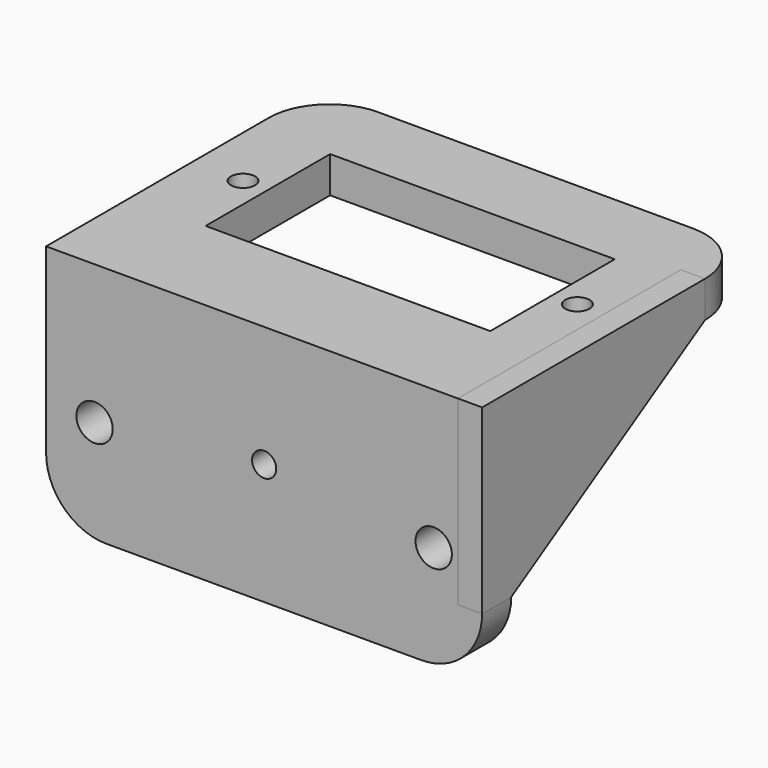
from build123d import *

# Parameters (mm, degrees)
F0_R       = 1.5
F1_DEPTH   = 3
F1_FACE1_W = 26
F1_FACE1_H = 3
F2_R       = 1
F2_W       = 23.5
F2_H       = 12.85
F2_W_2     = 36
F2_H_2     = 3
F3_DEPTH   = 3
F5_DEPTH   = 36
F6_R       = 1
F7_DEPTH   = 3.001
F9_DEPTH   = 2


with BuildPart() as f1:
    # F0 (on Front) → F1 (new body)
    with BuildSketch(Plane.XZ):
        with BuildLine():
            Line((-31, 0), (-5, 0))
            ThreePointArc((-5, 0), (-1.4644660941, 1.4644660941), (0, 5))
            Line((0, 5), (0, 17))
            Line((0, 17), (-36, 17))
            Line((-36, 17), (-36, 5))
            ThreePointArc((-36, 5), (-34.5355339059, 1.4644660941), (-31, 0))
        make_face()
        with Locations((-32, 8.5)):
            Circle(F0_R, mode=Mode.SUBTRACT)
        with Locations((-4, 8.5)):
            Circle(F0_R, mode=Mode.SUBTRACT)
    extrude(amount=F1_DEPTH)

    # F1_face1 (on face) + F2 (on face) → F3 (join)
    with BuildSketch(Plane(origin=(-18, -1.5, 0), x_dir=(1, 0, 0), z_dir=(0, 0, -1))):
        Rectangle(F1_FACE1_W, F1_FACE1_H)
    with BuildSketch(Plane.XY.offset(17)):
        with BuildLine():
            Line((-36, 20), (-36, 0))
            Line((-36, 0), (0, 0))
            Line((0, 0), (0, 20))
            ThreePointArc((0, 20), (-1.4644660941, 23.5355339059), (-5, 25))
            Line((-5, 25), (-31, 25))
            ThreePointArc((-31, 25), (-34.5355339059, 23.5355339059), (-36, 20))
        make_face()
        with Locations((-31.8, 12.075)):
            Circle(F2_R, mode=Mode.SUBTRACT)
        with Locations((-18, 12.075)):
            Rectangle(F2_W, F2_H, mode=Mode.SUBTRACT)
        with Locations((-4.2, 12.075)):
            Circle(F2_R, mode=Mode.SUBTRACT)
        with Locations((-18, -1.5)):
            Rectangle(F2_W_2, F2_H_2)
    extrude(amount=-F3_DEPTH, dir=(0, 0, -1))

    # F6 (on face) → F7 (cut, through all)
    with BuildSketch(Plane(origin=(0, 0, 0), x_dir=(-1, 0, 0), z_dir=(0, 1, 0))):
        with Locations((18, 10)):
            Circle(F6_R)
    extrude(amount=-F7_DEPTH, mode=Mode.SUBTRACT)


with BuildPart() as f5:
    # F4 (on face) → F5 (new body)
    with BuildSketch(Plane.YZ):
        with BuildLine():
            Line((0, 17), (0, 12))
            ThreePointArc((0, 12), (1.4644660941, 15.5355339059), (5, 17))
            Line((5, 17), (0, 17))
        make_face()
    extrude(amount=-F5_DEPTH)


with BuildPart() as f9:
    # F8 (on face) → F9 (new body)
    with BuildSketch(Plane.YZ):
        Polygon((0, 5), (20, 17), (0, 17), align=None)
        Polygon((0, 17), (20, 17), (20, 20), (-3, 20), (-3, 5), (0, 5), align=None)
    extrude(amount=-F9_DEPTH)


solid = Compound([f1.part, f5.part, f9.part])
